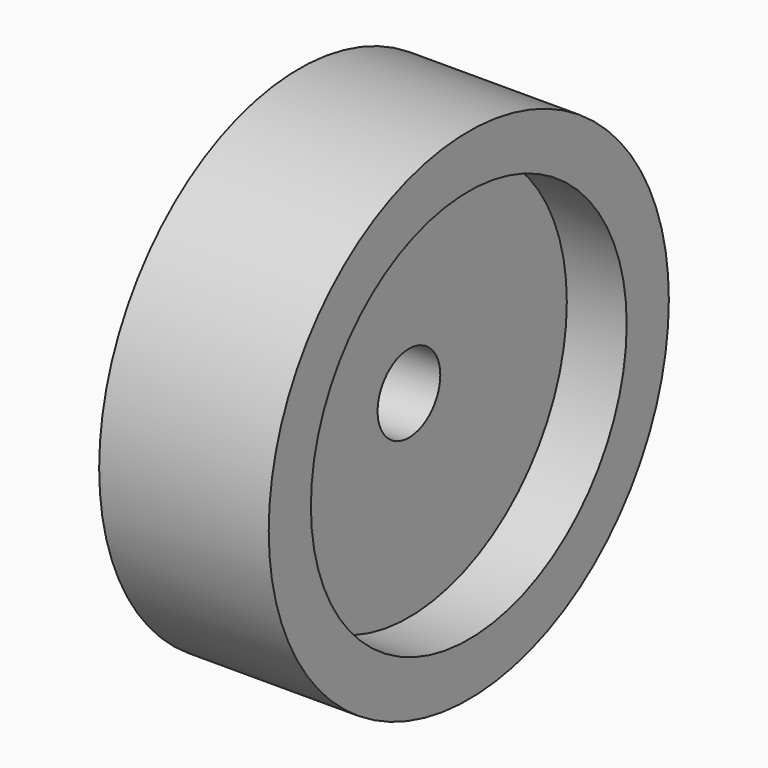
from build123d import *

# Parameters (mm, degrees)
F0_W     = 12
F0_H     = 35.9999971587
F2_R     = 8.3712602983
F3_DEPTH = 5


with BuildPart() as f1:
    # F0 (on Top) → F1 (revolve)
    with BuildSketch(Plane.XY):
        Polygon((-19.4594625823, 44.9189218498), (-6.4864925787, 44.9189218498), (5.5135074213, 44.9189218498), (19.1351225156, 44.9189218498), (19.1351225156, 56.9189218498), (-19.4594625823, 56.9189218498), align=None)
        with Locations((-0.4864925787, 26.9189232705)):
            Rectangle(F0_W, F0_H)
    revolve(axis=Axis((2.7567485016, 0, 0), (1, 0, 0)))

    # F2 (on face) → F3 (join)
    with BuildSketch(Plane(origin=(-6.4864925787, 0, 0), x_dir=(0, -1, 0), z_dir=(-1, 0, 0))):
        with Locations((0, 27.9054697603)):
            Circle(F2_R)
        with Locations((0, -27.5865457952)):
            Circle(F2_R)
    extrude(amount=F3_DEPTH)


solid = f1.part
